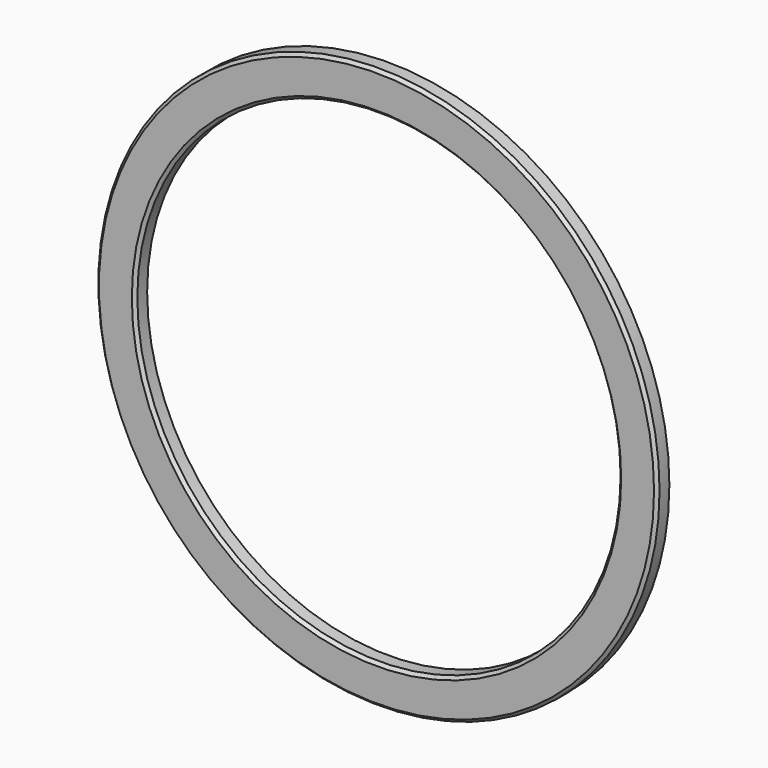
from build123d import *

# Parameters (mm, degrees)
F0_R     = 91.44
F0_R_2   = 78.74
F1_DEPTH = 5
F2_SIZE  = 1
F3_SIZE  = 1


with BuildPart() as f1:
    # F0 (on Front) → F1 (new body)
    with BuildSketch(Plane.XZ):
        with Locations((-18.093221, 4.894068)):
            Circle(F0_R)
        with Locations((-18.093221, 4.894068)):
            Circle(F0_R_2, mode=Mode.SUBTRACT)
    extrude(amount=F1_DEPTH)

    # F2
    f2_edges = [f1.edges().sort_by_distance(p)[0] for p in [
        (-109.533221, -5, 4.894068),
    ]]
    chamfer(f2_edges, length=F2_SIZE)

    # F3
    f3_edges = [f1.edges().sort_by_distance(p)[0] for p in [
        (-96.833221, -5, 4.894068),
    ]]
    chamfer(f3_edges, length=F3_SIZE)


solid = f1.part
